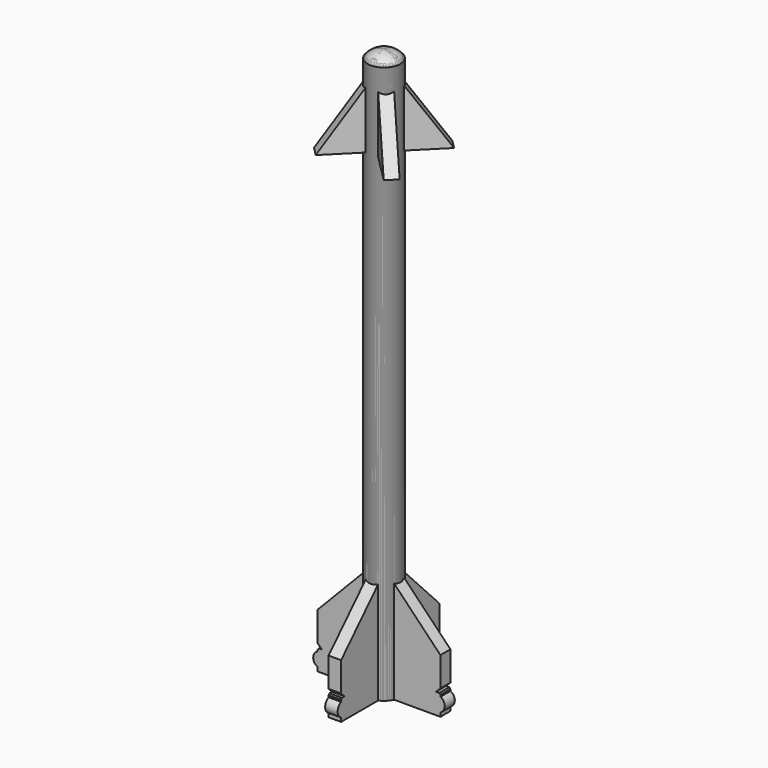
from build123d import *

# Parameters (mm, degrees)
F3_DEPTH = 0.2
F6_DEPTH = 0.2
F7_COUNT = 4


with BuildPart() as f1:
    # F0 (on Front) → F1 (revolve)
    with BuildSketch(Plane.XZ):
        with BuildLine():
            Line((0, 18.0555555556), (0, 0))
            Line((0, 0), (0.5208333333, 0))
            Line((0.5208333333, 0), (0.5208333333, 17.8055555556))
            ThreePointArc((0.5208333333, 17.8055555556), (0.288863013, 17.9898187771), (0, 18.0555555556))
        make_face()
    revolve(axis=Axis((0, 0, 9.0277777778), (0, 0, 1)))

    # F2 (on Front) → F3 (join, symmetric)
    with BuildSketch(Plane.XZ):
        with BuildLine():
            Line((1.9618055556, 1.7361111111), (0.3258054073, 3.4312437949))
            Line((0.3258054073, 3.4312437949), (-0.3258054073, 3.4312437949))
            Line((-0.3258054073, 3.4312437949), (-1.9618055556, 1.7361111111))
            Line((-1.9618055556, 1.7361111111), (-1.9618055556, 0.7986111111))
            Line((-1.9618055556, 0.7986111111), (-1.8229166667, 0.6597222222))
            Line((-1.8229166667, 0.6597222222), (-1.9201388889, 0.6597222222))
            Line((-1.9201388889, 0.6597222222), (-1.9618055556, 0.6180555556))
            Line((-1.9618055556, 0.6180555556), (-1.9618055556, 0.5625))
            ThreePointArc((-1.9618055556, 0.5625), (-2.1006944444, 0.34375), (-1.9618055556, 0.125))
            Line((-1.9618055556, 0.125), (-1.9618055556, 0))
            Line((-1.9618055556, 0), (1.9618055556, 0))
            Line((1.9618055556, 0), (1.9618055556, 0.125))
            ThreePointArc((1.9618055556, 0.125), (2.1006944444, 0.34375), (1.9618055556, 0.5625))
            Line((1.9618055556, 0.5625), (1.9618055556, 0.6136157699))
            Line((1.9618055556, 0.6136157699), (1.9251119965, 0.6597222222))
            Line((1.9251119965, 0.6597222222), (1.8229166667, 0.6597222222))
            Line((1.8229166667, 0.6597222222), (1.9618055556, 0.7986111111))
            Line((1.9618055556, 0.7986111111), (1.9618055556, 1.7361111111))
        make_face()
    extrude(amount=F3_DEPTH, both=True)

    # F5 (on face) → F6 (join, symmetric)
    with BuildSketch(Plane(origin=(0, 0, 0), x_dir=(0.7071067812, -0.7071067812, 0), z_dir=(-0.7071067812, -0.7071067812, 0))):
        Polygon((0.0558971175, 17.7260895971), (-0.0558971175, 17.7260895971), (-1.7361111111, 15.2777777778), (1.7361111111, 15.2777777778), align=None)
    extrude(amount=F6_DEPTH, both=True)


with BuildPart() as f7_1:
    # F7: instance of F1
    add(f1.part.rotate(Axis((0, 0, 0), (0, 0, 1)), 1 * 360 / F7_COUNT))


with BuildPart() as f7_2:
    # F7: instance of F1
    add(f1.part.rotate(Axis((0, 0, 0), (0, 0, 1)), 2 * 360 / F7_COUNT))


with BuildPart() as f7_3:
    # F7: instance of F1
    add(f1.part.rotate(Axis((0, 0, 0), (0, 0, 1)), 3 * 360 / F7_COUNT))


solid = Compound([f1.part, f7_1.part, f7_2.part, f7_3.part])
